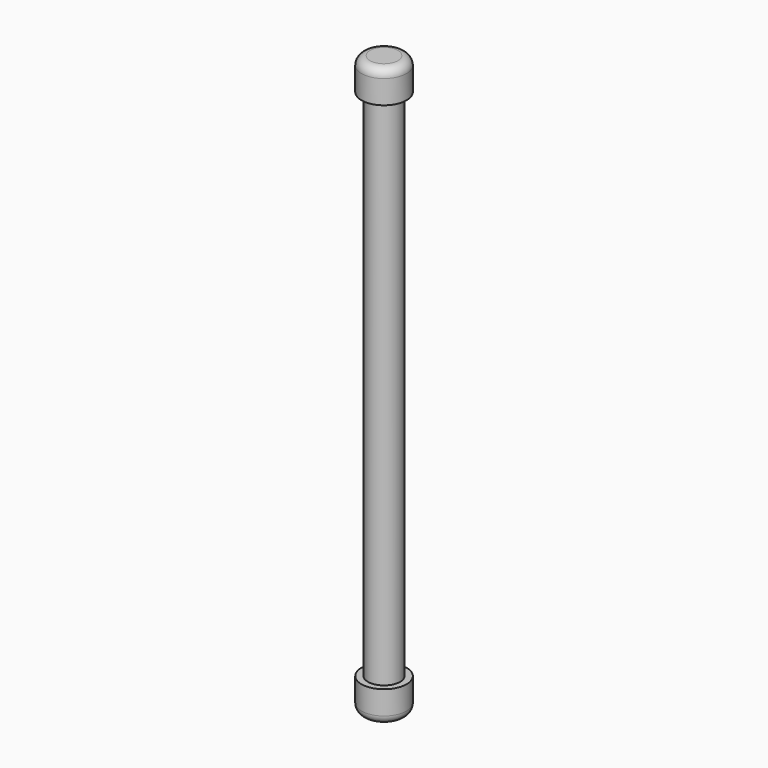
from build123d import *

# Parameters (mm, degrees)
F0_R     = 2.38125
F1_DEPTH = 76.2
F2_R     = 3.33375
F3_DEPTH = 4.7625
F4_R     = 3.33375
F5_DEPTH = 4.7625
F6_R     = 1.27


with BuildPart() as f1:
    # F0 (on Top) → F1 (new body)
    with BuildSketch(Plane.XY):
        Circle(F0_R)
    extrude(amount=F1_DEPTH)

    # F2 (on face) → F3 (join)
    with BuildSketch(Plane(origin=(0, 0, 0), x_dir=(1, 0, 0), z_dir=(0, 0, -1))):
        Circle(F2_R)
    extrude(amount=F3_DEPTH)

    # F4 (on face) → F5 (join)
    with BuildSketch(Plane.XY.offset(76.2)):
        Circle(F4_R)
    extrude(amount=F5_DEPTH)

    # F6
    f6_edges = [f1.edges().sort_by_distance(p)[0] for p in [
        (-3.33375, 0, 80.9625),
        (-3.33375, 0, -4.7625),
    ]]
    fillet(f6_edges, radius=F6_R)


solid = f1.part
